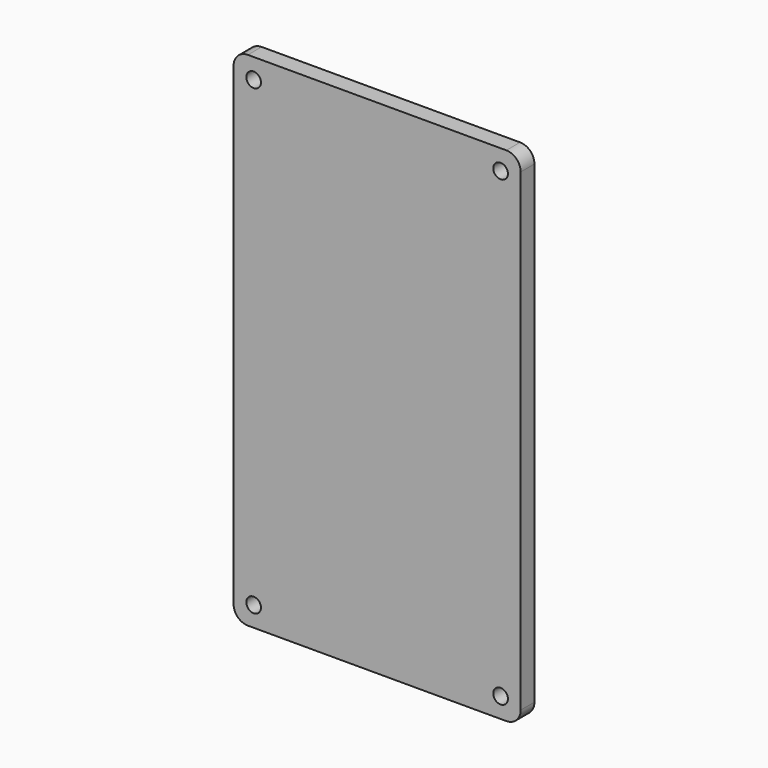
from build123d import *

# Parameters (mm, degrees)
F0_W     = 100
F0_H     = 175
F0_R     = 2.55
F1_DEPTH = 6
F2_R     = 5


with BuildPart() as f1:
    # F0 (on Front) → F1 (new body)
    with BuildSketch(Plane.XZ):
        Rectangle(F0_W, F0_H)
        with Locations((-43, -80.5)):
            Circle(F0_R, mode=Mode.SUBTRACT)
        with Locations((43, -80.5)):
            Circle(F0_R, mode=Mode.SUBTRACT)
        with Locations((-43, 80.5)):
            Circle(F0_R, mode=Mode.SUBTRACT)
        with Locations((43, 80.5)):
            Circle(F0_R, mode=Mode.SUBTRACT)
    extrude(amount=F1_DEPTH)

    # F2
    f2_edges = [f1.edges().sort_by_distance(p)[0] for p in [
        (-50, -3, 87.5),
        (-50, -3, -87.5),
        (50, -3, 87.5),
        (50, -3, -87.5),
    ]]
    fillet(f2_edges, radius=F2_R)


solid = f1.part
